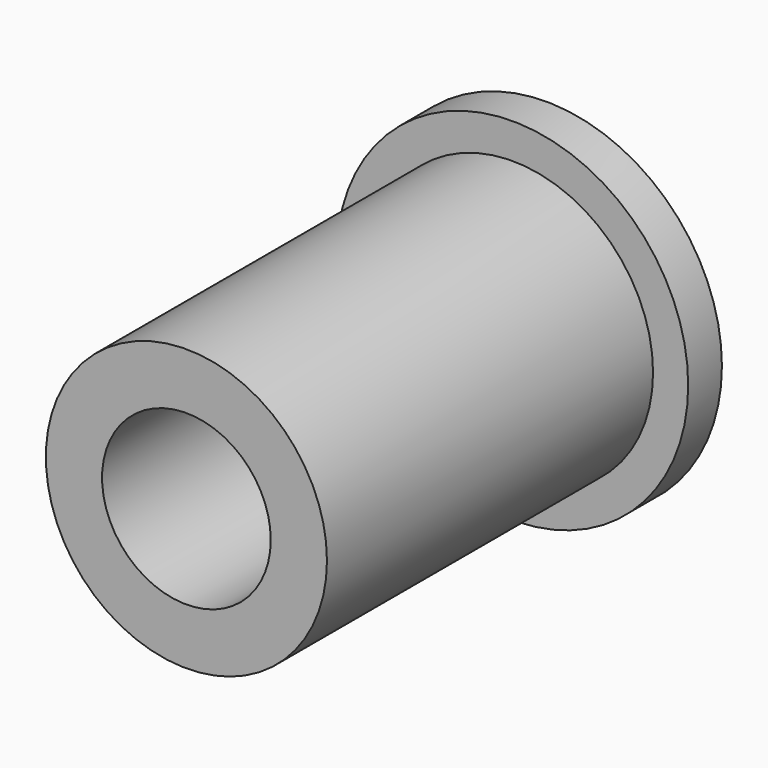
from build123d import *

# Parameters (mm, degrees)
F0_R     = 12.5
F0_R_2   = 10
F0_R_3   = 6
F0_R_4   = 5
F0_R_5   = 2.25
F1_DEPTH = 3
F2_DEPTH = 4
F3_DEPTH = 32


with BuildPart() as f1:
    # F0 (on Front) → F1 (new body)
    with BuildSketch(Plane.XZ):
        Circle(F0_R)
        Circle(F0_R_2, mode=Mode.SUBTRACT)
        Circle(F0_R_2)
        Circle(F0_R_3, mode=Mode.SUBTRACT)
        Circle(F0_R_3)
        Circle(F0_R_4, mode=Mode.SUBTRACT)
        Circle(F0_R_4)
        Circle(F0_R_5, mode=Mode.SUBTRACT)
    extrude(amount=F1_DEPTH)

    # F0 (on Front) → F2 (join)
    with BuildSketch(Plane.XZ):
        Circle(F0_R_4)
        Circle(F0_R_5, mode=Mode.SUBTRACT)
    extrude(amount=F2_DEPTH)

    # F0 (on Front) → F3 (join)
    with BuildSketch(Plane.XZ):
        Circle(F0_R_2)
        Circle(F0_R_3, mode=Mode.SUBTRACT)
    extrude(amount=F3_DEPTH)


solid = f1.part
